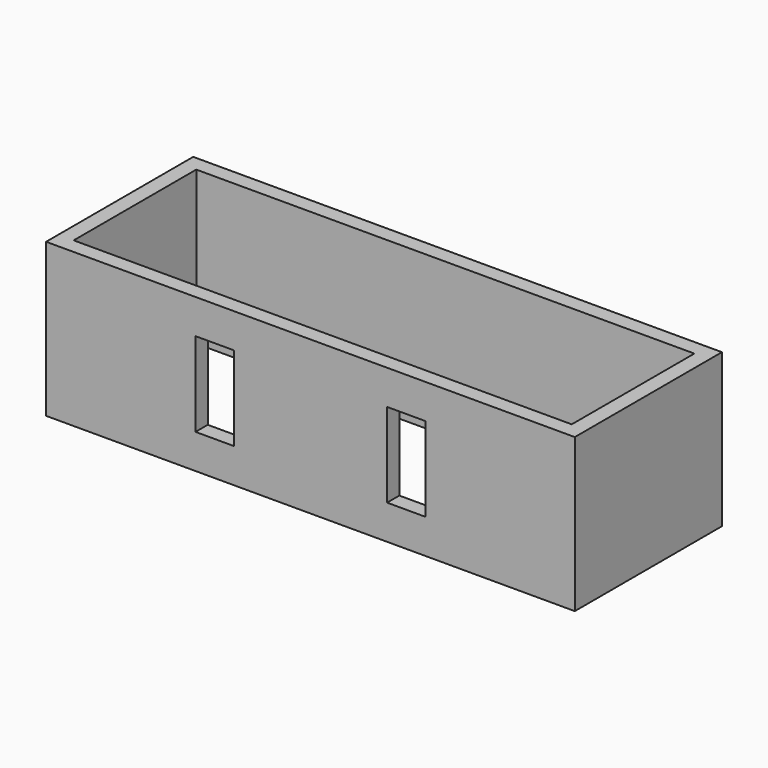
from build123d import *

# Parameters (mm, degrees)
F0_W     = 69
F0_H     = 20
F1_DEPTH = 24
F2_W     = 65
F2_H     = 20
F3_DEPTH = 20
F5_W     = 5
F5_H     = 11
F6_DEPTH = 5


with BuildPart() as f1:
    # F0 (on Front) → F1 (new body)
    with BuildSketch(Plane.XZ):
        with Locations((34.5, -10)):
            Rectangle(F0_W, F0_H)
    extrude(amount=F1_DEPTH)

    # F2 (on Top) → F3 (cut, symmetric)
    with BuildSketch(Plane.XY):
        with Locations((34.5, -12)):
            Rectangle(F2_W, F2_H)
    extrude(amount=F3_DEPTH, both=True, mode=Mode.SUBTRACT)

    # F5 (on offset) → F6 (cut)
    with BuildSketch(Plane(origin=(0, -22, 0), x_dir=(-1, 0, 0), z_dir=(0, 1, 0))):
        with Locations((-22, -10)):
            Rectangle(F5_W, F5_H)
        with Locations((-47, -9.9999997467)):
            Rectangle(F5_W, F5_H)
    extrude(amount=-F6_DEPTH, mode=Mode.SUBTRACT)


solid = f1.part
